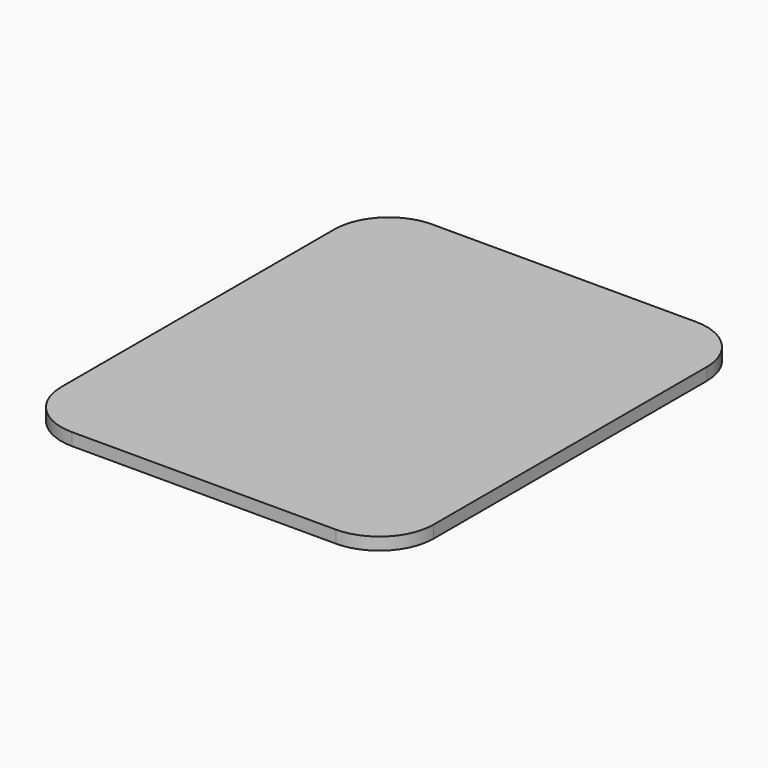
from build123d import *

# Parameters (mm, degrees)
F1_DEPTH = 20.32


with BuildPart() as f1:
    # F0 (on Top) → F1 (new body)
    with BuildSketch(Plane.XY):
        with BuildLine():
            Line((190.5, -368.3), (215.9, -368.3))
            ThreePointArc((215.9, -368.3), (278.761793, -342.261793), (304.8, -279.4))
            Line((304.8, -279.4), (304.8, 279.4))
            ThreePointArc((304.8, 279.4), (278.761793, 342.261793), (215.9, 368.3))
            Line((215.9, 368.3), (-215.9, 368.3))
            ThreePointArc((-215.9, 368.3), (-278.761793, 342.261793), (-304.8, 279.4))
            Line((-304.8, 279.4), (-304.8, -279.4))
            ThreePointArc((-304.8, -279.4), (-278.761793, -342.261793), (-215.9, -368.3))
            Line((-215.9, -368.3), (-190.5, -368.3))
            Line((-190.5, -368.3), (190.5, -368.3))
        make_face()
    extrude(amount=F1_DEPTH)


solid = f1.part
